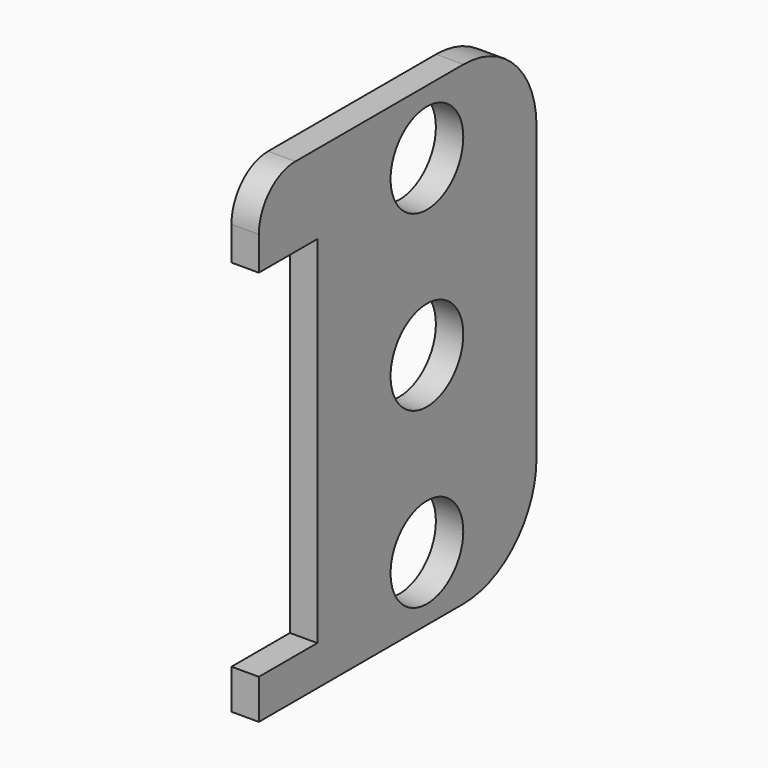
from build123d import *

# Parameters (mm, degrees)
F0_R     = 4.975
F1_DEPTH = 3


with BuildPart() as f1:
    # F0 (on Right) → F1 (new body)
    with BuildSketch(Plane.YZ):
        with BuildLine():
            ThreePointArc((-14, 26), (-17.535534, 24.535534), (-19, 21))
            Line((-19, 21), (-19, 17.3))
            Line((-19, 17.3), (-11, 17.3))
            Line((-11, 17.3), (-11, -21.65))
            Line((-11, -21.65), (-19, -21.65))
            Line((-19, -21.65), (-19, -26))
            Line((-19, -26), (9, -26))
            ThreePointArc((9, -26), (16.071068, -23.071068), (19, -16))
            Line((19, -16), (19, 16))
            ThreePointArc((19, 16), (16.071068, 23.071068), (9, 26))
            Line((9, 26), (-14, 26))
        make_face()
        with Locations((4, -19)):
            Circle(F0_R, mode=Mode.SUBTRACT)
        with Locations((4, 0)):
            Circle(F0_R, mode=Mode.SUBTRACT)
        with Locations((4, 19)):
            Circle(F0_R, mode=Mode.SUBTRACT)
    extrude(amount=F1_DEPTH)


solid = f1.part
